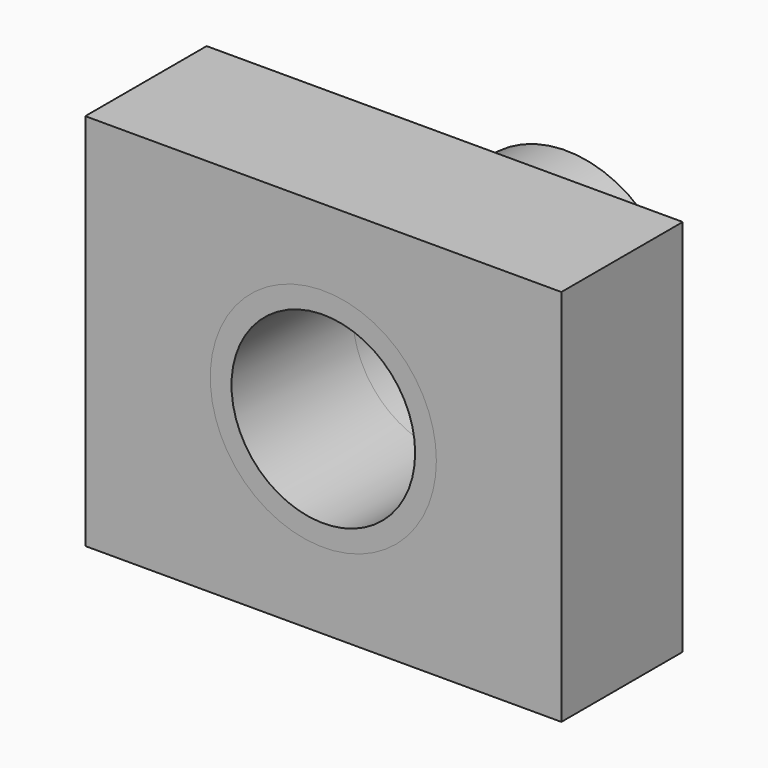
from build123d import *

# Parameters (mm, degrees)
F0_W        = 79.717994
F0_H        = 63.365586
F0_R        = 18.929868
F1_DEPTH    = 25.4
F0_R_2      = 15.375508
F2_DEPTH    = 25.4
F2_FACE_R   = 18.929868
F2_FACE_R_2 = 15.375508
F3_DEPTH    = 25.4


with BuildPart() as f1:
    # F0 (on Front) → F1 (new body)
    with BuildSketch(Plane.XZ):
        Rectangle(F0_W, F0_H)
        Circle(F0_R, mode=Mode.SUBTRACT)
    extrude(amount=F1_DEPTH)

    # F0 (on Front) → F2 (join)
    with BuildSketch(Plane.XZ):
        Circle(F0_R)
        Circle(F0_R_2, mode=Mode.SUBTRACT)
    extrude(amount=-F2_DEPTH)


with BuildPart() as f3:
    # F2_face (on face) → F3 (new body)
    with BuildSketch(Plane.XZ):
        Circle(F2_FACE_R)
        Circle(F2_FACE_R_2, mode=Mode.SUBTRACT)
    extrude(amount=F3_DEPTH)


solid = Compound([f1.part, f3.part])
